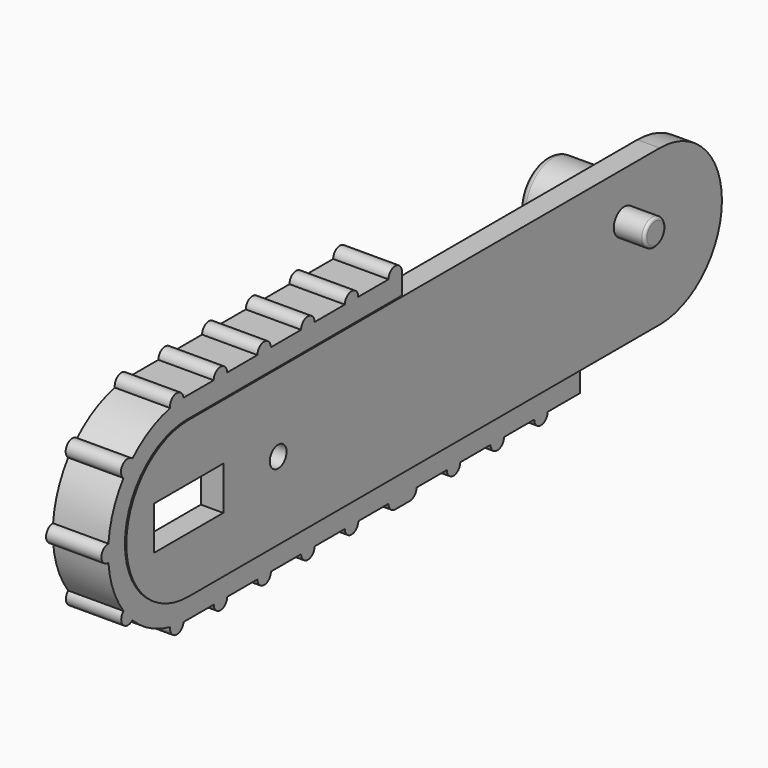
from build123d import *

# Parameters (mm, degrees)
PAD098_DEPTH            = 1.6
PAD099_DEPTH            = 4.05
POCKET093_DEPTH         = 0.1
SKETCH189_R             = 0.75
SKETCH189_W             = 6
SKETCH189_H             = 3
POCKET094_DEPTH         = 1.6
PAD100_DEPTH            = 3.95
SKETCH191_R             = 2.25
PAD101_DEPTH            = 4.9
SKETCH192_R             = 0.75
POCKET095_DEPTH         = 4.9
SKETCH193_R             = 2.475
PAD102_DEPTH            = 6.5
SKETCH194_R             = 0.75
POCKET096_DEPTH         = 6.5
FILLET041_R             = 0.5
SKETCH195_R             = 0.95
PAD103_DEPTH            = 2.2
FILLET042_R             = 0.2
SKETCH355_W             = 6.2
SKETCH355_H             = 3.1
POCKET171_DEPTH         = 5
BODY015_ROLL_ANGLE      = -90
BODY015_PLACEMENT_ANGLE = 90


with BuildPart() as part:
    # Sketch187 → Pad098 (new body)
    with BuildSketch(Plane.XY):
        with BuildLine():
            Line((0, 5.55), (42.05, 5.55))
            ThreePointArc((42.049962, -5.55), (47.599981, -1.9e-05), (42.05, 5.55))
            Line((42.049962, -5.55), (0, -5.55))
            ThreePointArc((0, 5.55), (-5.55, 0), (0, -5.55))
        make_face()
    extrude(amount=PAD098_DEPTH)

    # Sketch188 (on Face5 of Pad098) → Pad099 (join)
    with BuildSketch(Plane(origin=(0, 0, 0), x_dir=(1, 0, 0), z_dir=(0, 0, -1))):
        with BuildLine():
            Line((19.17, 5.55), (0, 5.55))
            ThreePointArc((0, 5.55), (-5.55, 0), (0, -5.55))
            Line((0, -5.55), (35.05, -5.55))
            Line((35.05, -5.55), (35.05, -7.05))
            Line((0, -7.05), (35.05, -7.05))
            ThreePointArc((0, 7.05), (-7.05, 0), (0, -7.05))
            Line((19.17, 7.05), (0, 7.05))
            Line((19.17, 5.55), (19.17, 7.05))
        make_face()
    extrude(amount=-PAD099_DEPTH)

    # Sketch188 (on Face5 of Pad098) → Pocket093 (cut)
    with BuildSketch(Plane(origin=(0, 0, 0), x_dir=(1, 0, 0), z_dir=(0, 0, -1))):
        with BuildLine():
            Line((19.17, 5.55), (0, 5.55))
            ThreePointArc((0, 5.55), (-5.55, 0), (0, -5.55))
            Line((0, -5.55), (35.05, -5.55))
            Line((35.05, -5.55), (35.05, -7.05))
            Line((0, -7.05), (35.05, -7.05))
            ThreePointArc((0, 7.05), (-7.05, 0), (0, -7.05))
            Line((19.17, 7.05), (0, 7.05))
            Line((19.17, 5.55), (19.17, 7.05))
        make_face()
    extrude(amount=-POCKET093_DEPTH, mode=Mode.SUBTRACT)

    # Sketch189 (on Face1 of Pocket093) → Pocket094 (cut)
    with BuildSketch(Plane(origin=(0, 0, 0), x_dir=(1, 0, 0), z_dir=(0, 0, -1))):
        with Locations((8, 0)):
            Circle(SKETCH189_R)
        Rectangle(SKETCH189_W, SKETCH189_H)
    extrude(amount=-POCKET094_DEPTH, mode=Mode.SUBTRACT)

    # Sketch190 (on Face11 of Pocket094) → Pad100 (join)
    with BuildSketch(Plane(origin=(0, 0, 0.1), x_dir=(1, 0, 0), z_dir=(0, 0, -1))):
        with BuildLine():
            ThreePointArc((19.17, 7.05), (18.57, 7.65), (17.97, 7.05))
            Line((19.17, 7.05), (17.97, 7.05))
        make_face()
        with BuildLine():
            ThreePointArc((15.27, 7.05), (14.67, 7.65), (14.07, 7.05))
            Line((15.27, 7.05), (14.07, 7.05))
        make_face()
        with BuildLine():
            ThreePointArc((11.37, 7.05), (10.77, 7.65), (10.17, 7.05))
            Line((11.37, 7.05), (10.17, 7.05))
        make_face()
        with BuildLine():
            ThreePointArc((7.47, 7.05), (6.87, 7.65), (6.27, 7.05))
            Line((7.47, 7.05), (6.27, 7.05))
        make_face()
        with BuildLine():
            ThreePointArc((3.57, 7.05), (2.97, 7.65), (2.37, 7.05))
            Line((3.57, 7.05), (2.37, 7.05))
        make_face()
        with BuildLine():
            ThreePointArc((-0.33, 7.042272), (-1.006549, 7.583492), (-1.51849, 6.884525))
            Line((-0.33, 7.042272), (-1.51849, 6.884525))
        make_face()
        with BuildLine():
            ThreePointArc((-4.890151, 5.078279), (-5.755669, 5.039323), (-5.679917, 4.176247))
            Line((-4.890151, 5.078279), (-5.679917, 4.176247))
        make_face()
        with BuildLine():
            ThreePointArc((-7.024468, 0.599457), (-7.65, 0), (-7.024468, -0.599457))
            Line((-7.024468, 0.599457), (-7.024468, -0.599457))
        make_face()
        with BuildLine():
            ThreePointArc((-5.677552, -4.179462), (-5.733191, -5.026164), (-4.886489, -5.081803))
            Line((-4.886489, -5.081803), (-5.677552, -4.179462))
        make_face()
        with BuildLine():
            ThreePointArc((-1.513526, -6.885618), (-1.001082, -7.584216), (-0.324923, -7.042508))
            Line((-0.324923, -7.042508), (-1.513526, -6.885618))
        make_face()
        with BuildLine():
            ThreePointArc((2.375077, -7.05), (2.975077, -7.65), (3.575077, -7.05))
            Line((3.575077, -7.05), (2.375077, -7.05))
        make_face()
        with BuildLine():
            ThreePointArc((6.275077, -7.05), (6.875077, -7.65), (7.475077, -7.05))
            Line((7.475077, -7.05), (6.275077, -7.05))
        make_face()
        with BuildLine():
            ThreePointArc((10.175077, -7.05), (10.775077, -7.65), (11.375077, -7.05))
            Line((11.375077, -7.05), (10.175077, -7.05))
        make_face()
        with BuildLine():
            ThreePointArc((14.075077, -7.05), (14.675077, -7.65), (15.275077, -7.05))
            Line((15.275077, -7.05), (14.075077, -7.05))
        make_face()
        with BuildLine():
            ThreePointArc((23.175077, -7.05), (23.775077, -7.65), (24.375077, -7.05))
            Line((24.375077, -7.05), (23.175077, -7.05))
        make_face()
        with BuildLine():
            ThreePointArc((27.075077, -7.05), (27.675077, -7.65), (28.275077, -7.05))
            Line((28.275077, -7.05), (27.075077, -7.05))
        make_face()
        with BuildLine():
            ThreePointArc((30.975077, -7.05), (31.575077, -7.65), (32.175077, -7.05))
            Line((32.175077, -7.05), (30.975077, -7.05))
        make_face()
        with BuildLine():
            ThreePointArc((17.975077, -7.05), (18.150813, -7.474264), (18.575077, -7.65))
            Line((19.875077, -7.65), (18.575077, -7.65))
            ThreePointArc((19.875077, -7.65), (20.299341, -7.474264), (20.475077, -7.05))
            Line((20.475077, -7.05), (17.975077, -7.05))
        make_face()
    extrude(amount=-PAD100_DEPTH)

    # Sketch191 (on Face12 of Pad100) → Pad101 (join)
    with BuildSketch(Plane.XY.offset(1.6)):
        with Locations((8, 0)):
            Circle(SKETCH191_R)
    extrude(amount=PAD101_DEPTH)

    # Sketch192 (on Face61 of Pad101) → Pocket095 (cut)
    with BuildSketch(Plane.XY.offset(6.5)):
        with Locations((8, 0)):
            Circle(SKETCH192_R)
    extrude(amount=-POCKET095_DEPTH, mode=Mode.SUBTRACT)

    # Sketch193 (on Face12 of Pocket095) → Pad102 (join)
    with BuildSketch(Plane.XY.offset(1.6)):
        with Locations((42.049981, 0)):
            Circle(SKETCH193_R)
    extrude(amount=PAD102_DEPTH)

    # Sketch194 (on Face62 of Pad102) → Pocket096 (cut)
    with BuildSketch(Plane.XY.offset(8.1)):
        with Locations((42.049981, 0)):
            Circle(SKETCH194_R)
    extrude(amount=-POCKET096_DEPTH, mode=Mode.SUBTRACT)

    # Fillet041
    fillet041_edges = [part.edges().sort_by_distance(p)[0] for p in [
        (39.574981, 0, 8.1),
        (5.75, 0, 6.5),
    ]]
    fillet(fillet041_edges, radius=FILLET041_R)

    # Sketch195 (on Face5 of Fillet041) → Pad103 (join)
    with BuildSketch(Plane(origin=(0, 0, 0), x_dir=(1, 0, 0), z_dir=(0, 0, -1))):
        with Locations((38.899981, 2.2)):
            Circle(SKETCH195_R)
    extrude(amount=PAD103_DEPTH)

    # Fillet042
    fillet042_edges = [part.edges().sort_by_distance(p)[0] for p in [
        (37.949981, -2.2, -2.2),
    ]]
    fillet(fillet042_edges, radius=FILLET042_R)

    # Sketch355 (on Face16 of Fillet042) → Pocket171 (cut)
    with BuildSketch(Plane.XY.offset(1.6)):
        Rectangle(SKETCH355_W, SKETCH355_H)
    extrude(amount=-POCKET171_DEPTH, mode=Mode.SUBTRACT)


with BuildPart() as part_1:
    # Body015 roll: moved
    add(part.part.rotate(Axis((0, 0, 0), (1, 0, 0)), BODY015_ROLL_ANGLE))


with BuildPart() as part_2:
    # Body015 placement: moved
    add(part_1.part.moved(Location((27.8, -51, -6.5))).rotate(Axis((27.8, -51, -6.5), (0, 0, 1)), BODY015_PLACEMENT_ANGLE))


solid = part_2.part
